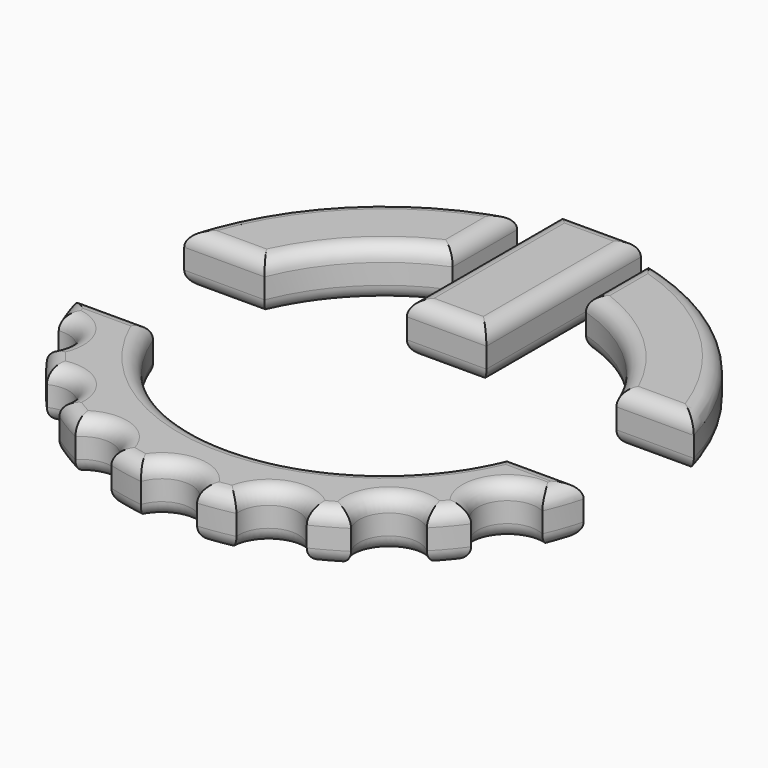
from build123d import *

# Parameters (mm, degrees)
F0_W     = 15.757024
F0_H     = 38.292993
F1_DEPTH = 10
F2_R     = 3


with BuildPart() as f1:
    # F0 (on Top) → F1 (new body)
    with BuildSketch(Plane.XY):
        with BuildLine():
            ThreePointArc((-33.478102, 14.534075), (-25.252325, 27.041067), (-12.797808, 35.34608))
            Line((-12.797808, 35.34608), (-12.797808, 51.324874))
            ThreePointArc((-12.797808, 51.324874), (-35.969663, 37.783122), (-49.378455, 14.534075))
            Line((-49.378455, 14.534075), (-33.478102, 14.534075))
        make_face()
        with Locations((0, 36.985174)):
            Rectangle(F0_W, F0_H)
        with BuildLine():
            ThreePointArc((49.14704, -19.885765), (50.523329, -16.361071), (51.64127, -12.746124))
            Line((51.64127, -12.746124), (36.572829, -12.746124))
            ThreePointArc((36.572829, -12.746124), (1.411748, -37.043823), (-33.749332, -12.746124))
            Line((-33.749332, -12.746124), (-49.378455, -12.746124))
            ThreePointArc((-49.378455, -12.746124), (-48.336418, -16.142244), (-47.066325, -19.459823))
            ThreePointArc((-47.066325, -19.459823), (-41.209465, -22.484304), (-41.769996, -29.052111))
            ThreePointArc((-41.769996, -29.052111), (-39.599695, -31.943135), (-37.234938, -34.67739))
            ThreePointArc((-37.234938, -34.67739), (-30.693018, -35.520475), (-28.981419, -41.890557))
            ThreePointArc((-28.981419, -41.890557), (-25.972109, -43.857537), (-22.834822, -45.613211))
            ThreePointArc((-22.834822, -45.613211), (-16.272803, -44.034233), (-12.486931, -49.621758))
            ThreePointArc((-12.486931, -49.621758), (-9.031563, -50.428656), (-5.52945, -50.999488))
            ThreePointArc((-5.52945, -50.999488), (0.208741, -46.945216), (5.786335, -51.217733))
            ThreePointArc((5.786335, -51.217733), (9.260229, -50.789879), (12.697742, -50.130709))
            ThreePointArc((12.697742, -50.130709), (16.650251, -43.894587), (23.613749, -46.348409))
            ThreePointArc((23.613749, -46.348409), (26.702703, -44.750382), (29.678665, -42.950666))
            ThreePointArc((29.678665, -42.950666), (30.965248, -35.2866), (38.734054, -35.483759))
            ThreePointArc((38.734054, -35.483759), (41.080237, -32.890482), (43.247938, -30.146263))
            ThreePointArc((43.247938, -30.146263), (41.350059, -22.229065), (49.14704, -19.885765))
        make_face()
        with BuildLine():
            Line((36.301599, 14.534075), (51.64127, 14.534075))
            ThreePointArc((51.64127, 14.534075), (37.400512, 38.60141), (12.797808, 51.895874))
            Line((12.797808, 51.895874), (12.797808, 36.369375))
            ThreePointArc((12.797808, 36.369375), (26.996119, 28.085078), (36.301599, 14.534075))
        make_face()
    extrude(amount=F1_DEPTH)

    # F2
    f2_edges = [f1.edges().sort_by_distance(p)[0] for p in [
        (30.965248, -35.2866, 10),
        (41.080237, -32.890482, 10),
        (41.350059, -22.229065, 10),
        (50.523329, -16.361071, 10),
        (44.10705, -12.746124, 10),
        (1.411748, -37.043823, 10),
        (-41.563894, -12.746124, 10),
        (-48.336418, -16.142244, 10),
        (-41.209465, -22.484304, 10),
        (-39.599695, -31.943135, 10),
        (-30.693018, -35.520475, 10),
        (-25.972109, -43.857537, 10),
        (-16.272803, -44.034233, 10),
        (-9.031563, -50.428656, 10),
        (0.208741, -46.945216, 10),
        (9.260229, -50.789879, 10),
        (16.650251, -43.894587, 10),
        (26.702703, -44.750382, 10),
        (-41.428279, 14.534075, 10),
        (-25.252325, 27.041067, 10),
        (-12.797808, 43.335477, 10),
        (-35.969663, 37.783122, 10),
        (0, 17.838678, 10),
        (7.878512, 36.985175, 10),
        (0, 56.131671, 10),
        (-7.878512, 36.985175, 10),
        (37.400512, 38.60141, 10),
        (12.797808, 44.132625, 10),
        (26.996119, 28.085078, 10),
        (43.971435, 14.534075, 10),
        (26.996119, 28.085078, 0),
        (-41.428279, 14.534075, 0),
        (-25.252325, 27.041067, 0),
        (-12.797808, 43.335477, 0),
        (-35.969663, 37.783122, 0),
        (30.965248, -35.2866, 0),
        (41.080237, -32.890482, 0),
        (41.350059, -22.229065, 0),
        (50.523329, -16.361071, 0),
        (44.10705, -12.746124, 0),
        (1.411748, -37.043823, 0),
        (-41.563894, -12.746124, 0),
        (-48.336418, -16.142244, 0),
        (-41.209465, -22.484304, 0),
        (-39.599695, -31.943135, 0),
        (-30.693018, -35.520475, 0),
        (-25.972109, -43.857537, 0),
        (-16.272803, -44.034233, 0),
        (-9.031563, -50.428656, 0),
        (0.208741, -46.945216, 0),
        (9.260229, -50.789879, 0),
        (16.650251, -43.894587, 0),
        (26.702703, -44.750382, 0),
        (0, 17.838678, 0),
        (7.878512, 36.985175, 0),
        (0, 56.131671, 0),
        (-7.878512, 36.985175, 0),
        (37.400512, 38.60141, 0),
        (12.797808, 44.132625, 0),
        (43.971435, 14.534075, 0),
    ]]
    fillet(f2_edges, radius=F2_R)


solid = f1.part
